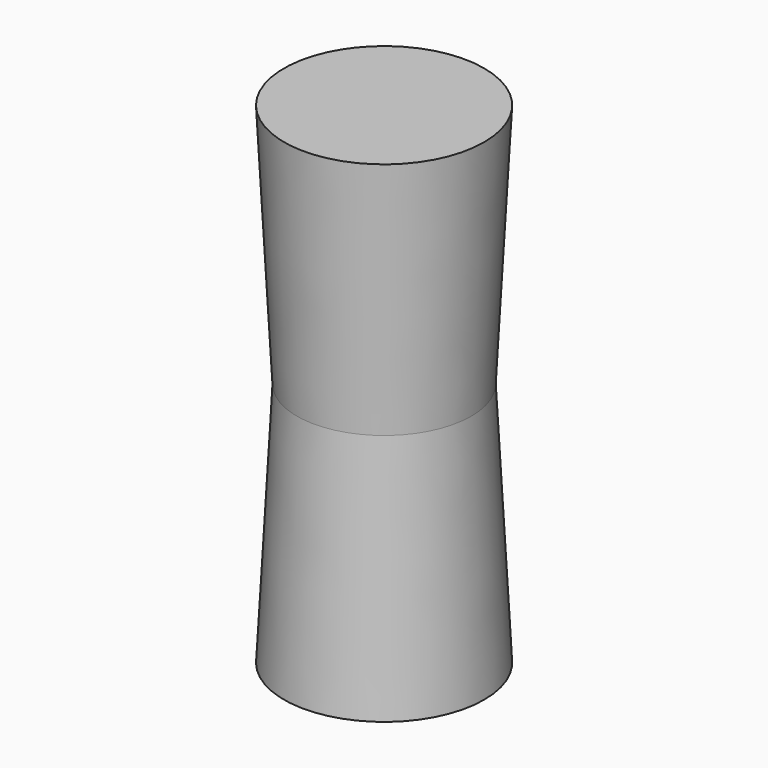
from build123d import *

# Parameters (mm, degrees)
F0_R          = 24.0055714242
F1_DEPTH      = 67.564
F1_TAPER      = -3
F1_DEPTH_BACK = 67.564
F1_TAPER_BACK = -3


with BuildPart() as f1:
    # F0 (on Top) → F1 (new body, two sides)
    with BuildSketch(Plane.XY) as f1_sk:
        Circle(F0_R)
    extrude(amount=-F1_DEPTH, taper=F1_TAPER)
    extrude(f1_sk.sketch, amount=F1_DEPTH_BACK, taper=F1_TAPER_BACK)


solid = f1.part
